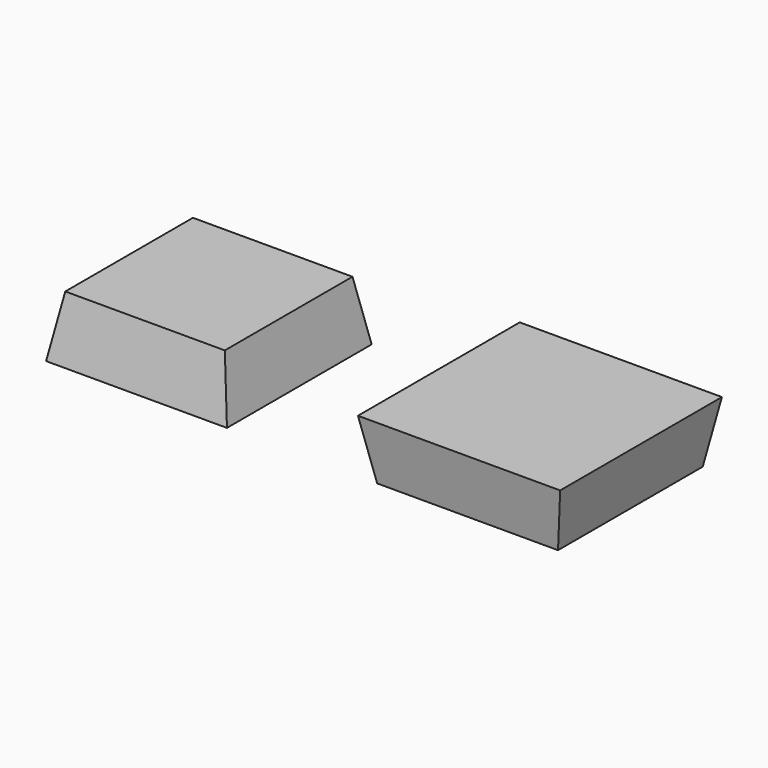
from build123d import *

# Parameters (mm, degrees)
F0_W     = 74.8037864
F0_H     = 74.8037864
F1_DEPTH = 25
F1_TAPER = 10
F2_DEPTH = 25
F2_TAPER = -10


with BuildPart() as f1:
    # F0 (on Top) → F1 (new body)
    with BuildSketch(Plane.XY):
        Rectangle(F0_W, F0_H)
    extrude(amount=F1_DEPTH, taper=F1_TAPER)


with BuildPart() as f2:
    # F0 (on Top) → F2 (new body)
    with BuildSketch(Plane.XY):
        with Locations((136.9150643929, 0)):
            Rectangle(F0_W, F0_H)
    extrude(amount=F2_DEPTH, taper=F2_TAPER)


solid = Compound([f1.part, f2.part])
